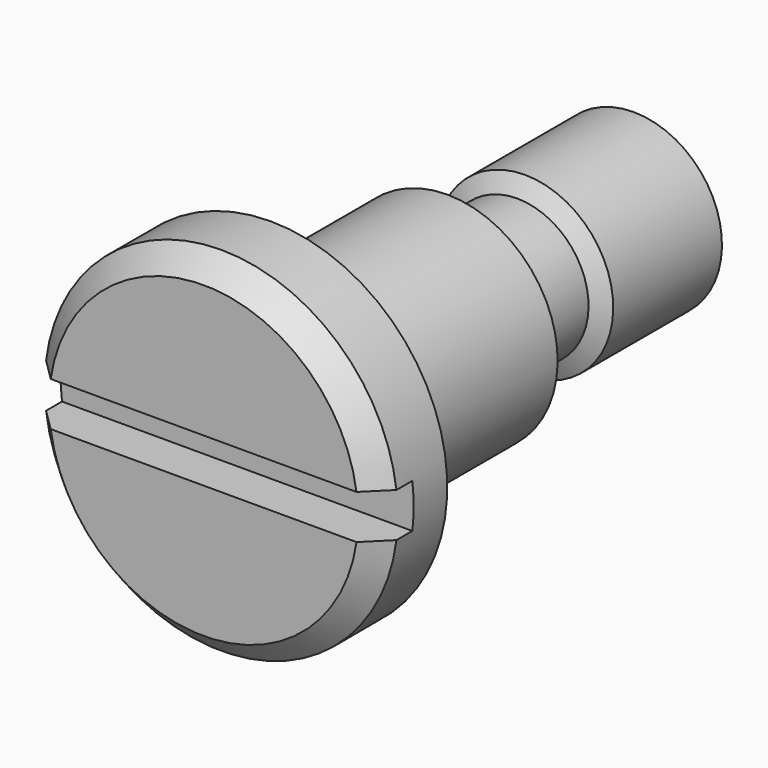
from build123d import *

# Parameters (mm, degrees)
SKETCH001_W  = 2
SKETCH001_H  = 16
POCKET_DEPTH = 1.9


with BuildPart() as part:
    # Sketch → Revolution (revolve)
    with BuildSketch(Plane.YZ):
        Polygon((0, 0), (0, 7), (1, 8), (3.8, 8), (3.8, 5), (13.8, 5), (13.8, 3.235), (17.758327, 3.235), (18.2, 4), (24.358327, 4), (24.8, 3.235), (24.8, 0), align=None)
    revolve(axis=Axis((0, 0, 0), (0, 1, 0)))

    # Sketch001 → Pocket (cut)
    with BuildSketch(Plane(origin=(0, 0, 0), x_dir=(0, 0, -1), z_dir=(0, -1, 0))):
        Rectangle(SKETCH001_W, SKETCH001_H)
    extrude(amount=-POCKET_DEPTH, mode=Mode.SUBTRACT)


solid = part.part
